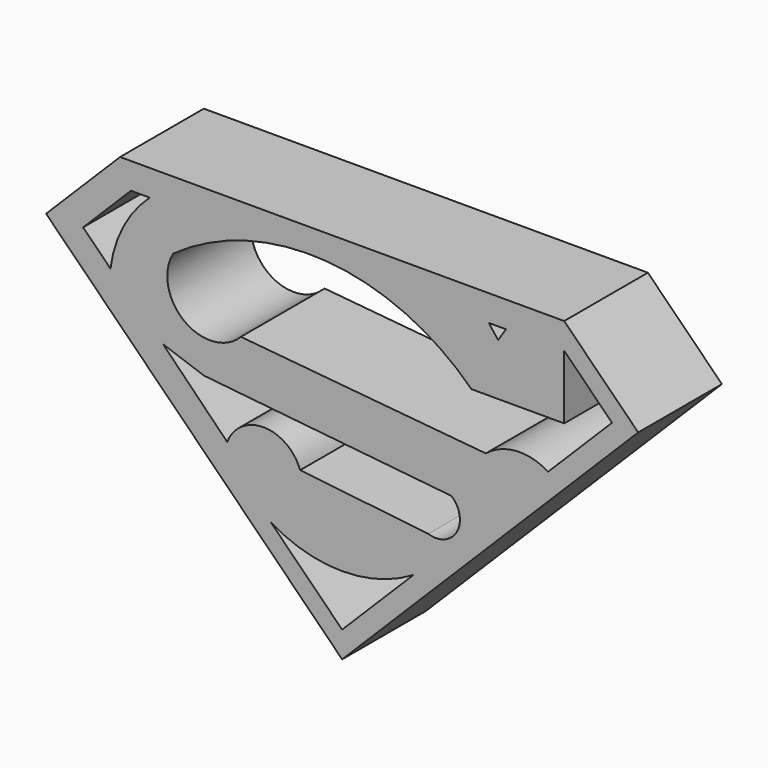
from build123d import *

# Parameters (mm, degrees)
F1_DEPTH = 25.4


with BuildPart() as f1:
    # F0 (on Front) → F1 (new body)
    with BuildSketch(Plane.XZ):
        Polygon((-71.842049, 71.842049), (0, 0), (71.842049, 71.842049), (53.881537, 89.802561), (-53.881537, 89.802561), align=None)
        with BuildLine():
            Line((17.325188, 23.675188), (0, 6.35))
            Line((0, 6.35), (-17.325188, 23.675188))
            ThreePointArc((-17.325188, 23.675188), (0, 18.840947), (17.325188, 23.675188))
        make_face(mode=Mode.SUBTRACT)
        with BuildLine():
            Line((-27.88843, 37.371293), (-43.441594, 53.192612))
            Line((-43.441594, 53.192612), (-33.519749, 49.70656))
            Line((-33.519749, 49.70656), (26.547641, 43.538928))
            ThreePointArc((26.547641, 43.538928), (27.826581, 36.254042), (20.916322, 33.617079))
            Line((20.916322, 33.617079), (-10.190004, 37.103135))
            ThreePointArc((-10.190004, 37.103135), (-18.94585, 43.399421), (-27.88843, 37.371293))
        make_face(mode=Mode.SUBTRACT)
        with BuildLine():
            ThreePointArc((-46.700488, 83.452561), (-53.089277, 75.177991), (-56.225224, 65.20548))
            Line((-56.225224, 65.20548), (-62.861793, 71.842049))
            Line((-62.861793, 71.842049), (-51.251281, 83.452561))
            Line((-51.251281, 83.452561), (-46.700488, 83.452561))
        make_face(mode=Mode.SUBTRACT)
        with BuildLine():
            Line((53.881537, 67.93008), (53.881537, 83.452561))
            Line((53.881537, 83.452561), (65.492049, 71.842049))
            Line((65.492049, 71.842049), (49.96895, 56.31895))
            ThreePointArc((49.96895, 56.31895), (42.256735, 58.261775), (34.860542, 55.33788))
            Line((34.860542, 55.33788), (-24.575694, 60.914379))
            ThreePointArc((-24.575694, 60.914379), (-38.321211, 59.825174), (-40.998805, 73.351301))
            ThreePointArc((-40.998805, 73.351301), (-3.816385, 83.83065), (31.390447, 67.93008))
            Line((31.390447, 67.93008), (53.881537, 67.93008))
        make_face(mode=Mode.SUBTRACT)
        Polygon((37.845217, 80.521145), (35.590284, 83.452561), (39.761905, 83.452561), align=None, mode=Mode.SUBTRACT)
    extrude(amount=-F1_DEPTH)


solid = f1.part
